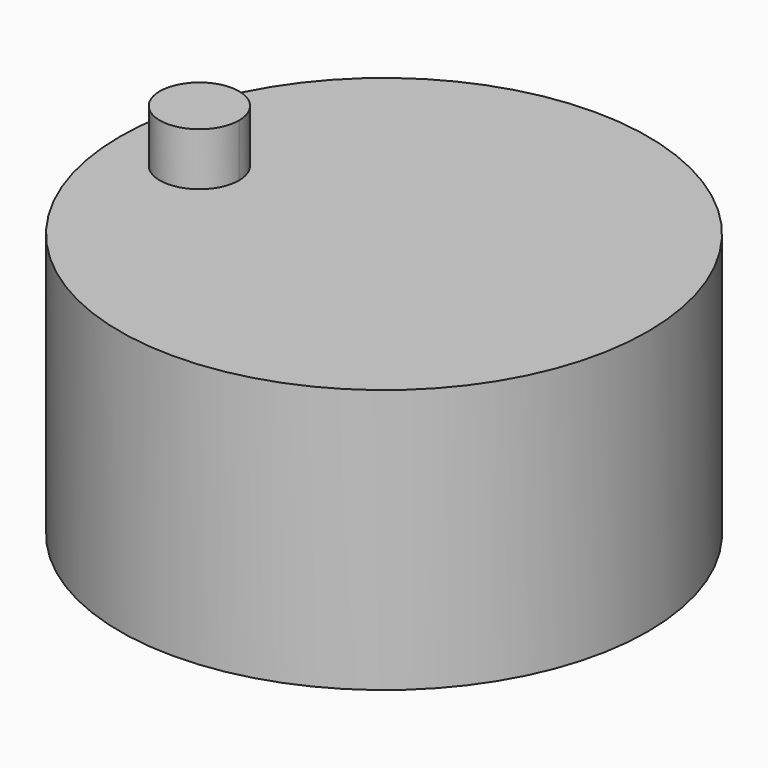
from build123d import *

# Parameters (mm, degrees)
F1_DEPTH = 5
F3_DEPTH = 1


with BuildPart() as f1:
    # F0 (on Top) → F1 (new body)
    with BuildSketch(Plane.XY):
        with BuildLine():
            ThreePointArc((-4.997876, 0), (0, -4.997876), (4.997876, 0))
            ThreePointArc((4.997876, 0), (0, 4.997876), (-4.997876, 0))
        make_face()
    extrude(amount=F1_DEPTH)


with BuildPart() as f3:
    # F2 (on face) → F3 (new body)
    with BuildSketch(Plane.XY.offset(5)):
        with BuildLine():
            ThreePointArc((-2.745625, 0), (-3.494999, 0.749374), (-4.244374, 0))
            ThreePointArc((-4.244374, 0), (-3.494999, -0.749374), (-2.745625, 0))
        make_face()
    extrude(amount=F3_DEPTH)


solid = Compound([f1.part, f3.part])
